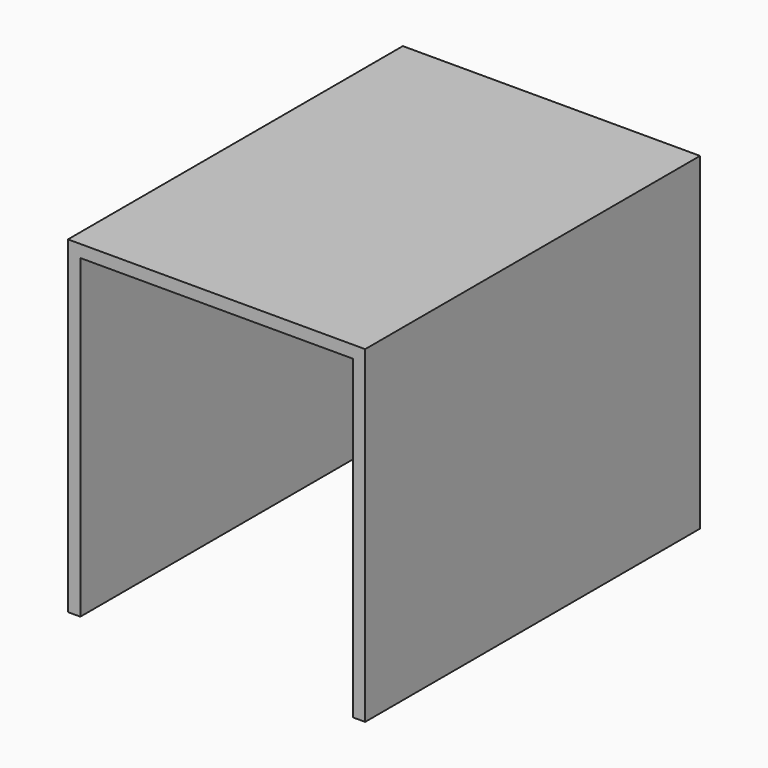
from build123d import *

# Parameters (mm, degrees)
F0_W     = 2200
F0_H     = 3280
F1_DEPTH = 100
F0_W_2   = 100
F0_H_2   = 100
F2_DEPTH = 2650
F3_W     = 2200
F3_H     = 100
F4_DEPTH = 0.1


with BuildPart() as f1:
    # F0 (on Top) → F1 (new body)
    with BuildSketch(Plane.XY):
        with Locations((0, -50)):
            Rectangle(F0_W, F0_H)
    extrude(amount=-F1_DEPTH)

    # F0 (on Top) → F2 (join)
    with BuildSketch(Plane.XY):
        with Locations((-1150, -50)):
            Rectangle(F0_W_2, F0_H)
        with Locations((0, 1640)):
            Rectangle(F0_W, F0_H_2)
        with Locations((1150, -50)):
            Rectangle(F0_W_2, F0_H)
        with Locations((1150, 1640)):
            Rectangle(F0_W_2, F0_H_2)
        with Locations((-1150, 1640)):
            Rectangle(F0_W_2, F0_H_2)
    extrude(amount=-F2_DEPTH)

    # F3 (on face) → F4 (join)
    with BuildSketch(Plane(origin=(0, 0, -100), x_dir=(1, 0, 0), z_dir=(0, 0, -1))):
        with Locations((0, 1640)):
            Rectangle(F3_W, F3_H)
    extrude(amount=F4_DEPTH)


solid = f1.part
